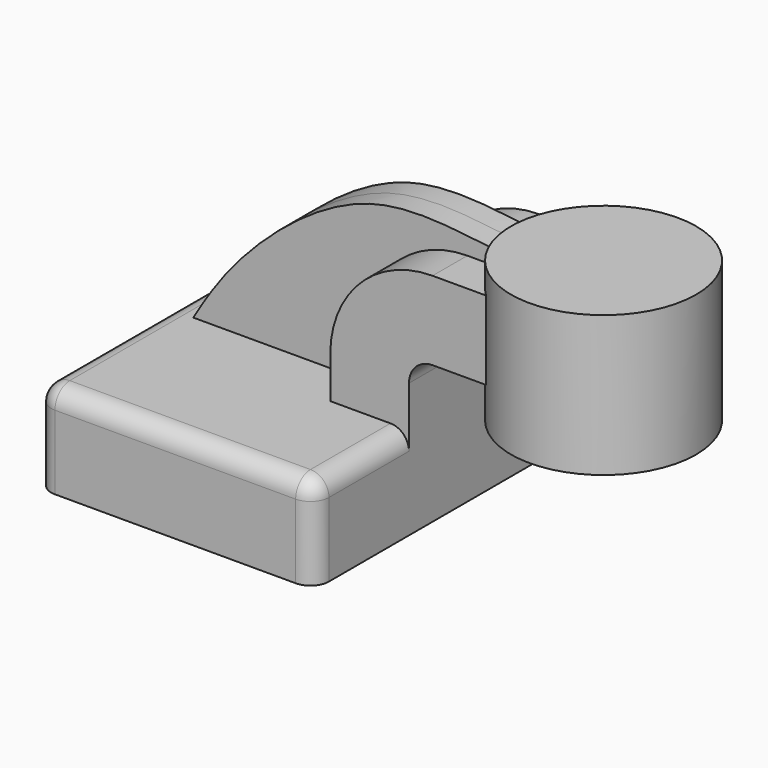
from build123d import *

# Parameters (mm, degrees)
F1_DEPTH = 50.8
F2_DEPTH = 18.288
F3_DEPTH = 6.35
F0_W     = 25.4
F0_H     = 38.6286331601
F5_R     = 5.08


with BuildPart() as f1:
    # F0 (on Front) → F1 (new body, symmetric)
    with BuildSketch(Plane.XZ):
        Polygon((38.1, -12.7), (38.1, 12.7), (16.5100004677, 12.7), (-30.6439399719, 12.7), (-38.1, 12.7), (-38.1, -12.7), align=None)
    extrude(amount=F1_DEPTH, both=True)

    # F0 (on Front) → F2 (join, symmetric)
    with BuildSketch(Plane.XZ):
        with BuildLine():
            Line((16.5100004677, 12.7), (38.1, 12.7))
            Line((38.1, 12.7), (38.1, 24.0545344999))
            ThreePointArc((38.1, 24.0545344999), (39.9923105597, 28.6229763174), (44.5607523772, 30.5152868771))
            Line((44.5607523772, 30.5152868771), (51.4560379088, 30.5152868771))
            Line((51.4560379088, 30.5152868771), (51.4560379088, 52.1052864094))
            Line((51.4560379088, 52.1052864094), (44.5607523772, 52.1052864094))
            ThreePointArc((44.5607523772, 52.1052864094), (24.7258754846, 43.8894113925), (16.5100004677, 24.0545344999))
            Line((16.5100004677, 24.0545344999), (16.5100004677, 12.7))
        make_face()
        Polygon((51.4560379088, 52.1052864094), (51.4560379088, 30.5152868771), (64.020066675, 30.5152868771), (64.020066675, 52.1052864094), (58.4391281009, 52.1052864094), align=None)
    extrude(amount=F2_DEPTH, both=True)

    # F0 (on Front) → F3 (join, symmetric)
    with BuildSketch(Plane.XZ):
        with BuildLine():
            Line((-30.6439399719, 12.7), (16.5100004677, 12.7))
            Line((16.5100004677, 12.7), (16.5100004677, 24.0545344999))
            ThreePointArc((16.5100004677, 24.0545344999), (24.7258754846, 43.8894113925), (44.5607523772, 52.1052864094))
            Line((44.5607523772, 52.1052864094), (51.4560379088, 52.1052864094))
            Line((51.4560379088, 52.1052864094), (51.4560379088, 56.1626598461))
            add(Edge.make_bspline(
                [(51.4560379088, 56.1626598461), (40.4668177648, 57.3816540823), (15.1828966136, 61.2777253632), (-18.425734597, 32.7653036797), (-26.9961953148, 18.7397968243), (-30.6439399719, 12.7)],
                knots=[0.062706619, 0.062706619, 0.062706619, 0.062706619, 0.3573556866, 0.7280176576, 1, 1, 1, 1], degree=3))
        make_face()
        with BuildLine():
            add(Edge.make_bspline(
                [(58.4391281009, 55.5037148297), (56.1240075207, 55.6667510787), (53.7947415268, 55.9032359568), (51.4560379088, 56.1626598461)],
                knots=[0, 0, 0, 0, 0.062706619, 0.062706619, 0.062706619, 0.062706619], degree=3))
            Line((51.4560379088, 56.1626598461), (51.4560379088, 52.1052864094))
            Line((51.4560379088, 52.1052864094), (58.4391281009, 52.1052864094))
            Line((58.4391281009, 52.1052864094), (58.4391281009, 55.5037148297))
        make_face()
    extrude(amount=F3_DEPTH, both=True)

    # F0 (on Front) → F4 (revolve)
    with BuildSketch(Plane.XZ):
        with Locations((89.5560379088, 39.5638855255)):
            Rectangle(F0_W, F0_H)
    revolve(axis=Axis((76.8560379088, 0, 39.5638855255), (0, 0, -1)))

    # F5
    f5_edges = [f1.edges().sort_by_distance(p)[0] for p in [
        (-38.1, 0, 12.7),
        (0, -50.8, 12.7),
        (38.1, -34.544, 12.7),
        (38.1, -50.8, 0),
        (-38.1, -50.8, 0),
        (38.1, 34.544, 12.7),
        (38.1, 50.8, 0),
        (0, 50.8, 12.7),
        (-38.1, 50.8, 0),
    ]]
    fillet(f5_edges, radius=F5_R)


solid = f1.part
